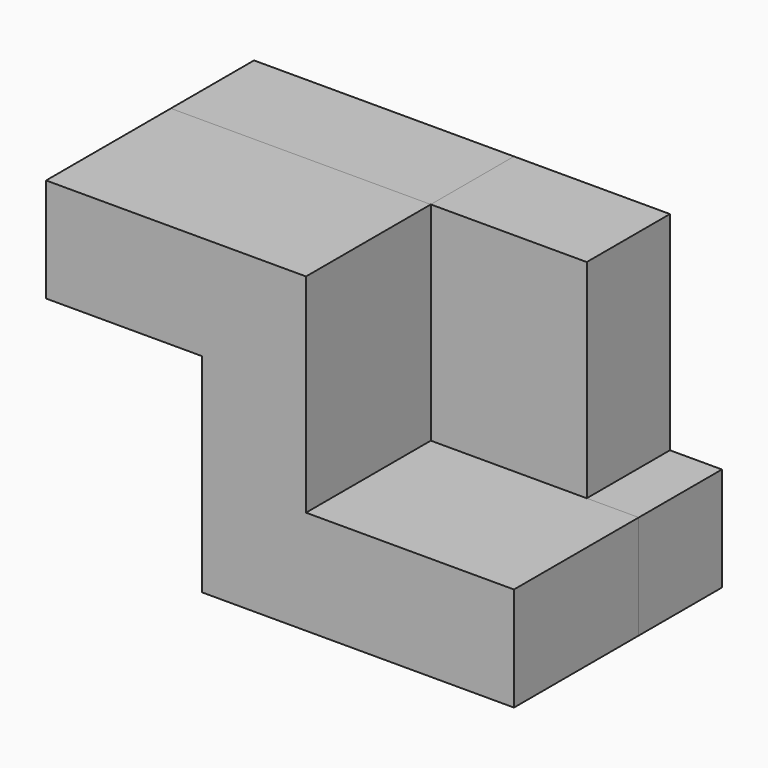
from build123d import *

# Parameters (mm, degrees)
F1_DEPTH = 63.5
F2_DEPTH = 25.4
F3_W     = 25.4
F3_H     = 50.8
F4_DEPTH = 38.1


with BuildPart() as f1:
    # F0 (on Front) → F1 (new body)
    with BuildSketch(Plane.XZ):
        Polygon((16.885137, 53.24405), (-46.614863, 53.24405), (-46.614863, 27.84405), (-8.514863, 27.84405), (-8.514863, -22.95595), (67.685137, -22.95595), (67.685137, 2.44405), (16.885137, 2.44405), align=None)
    extrude(amount=F1_DEPTH)


with BuildPart() as f2:
    # F0 (on Front) → F2 (new body)
    with BuildSketch(Plane.XZ):
        Polygon((16.885137, 53.24405), (-46.614863, 53.24405), (-46.614863, 27.84405), (-8.514863, 27.84405), (-8.514863, -22.95595), (67.685137, -22.95595), (67.685137, 2.44405), (16.885137, 2.44405), align=None)
    extrude(amount=F2_DEPTH)


with BuildPart() as f4:
    # F3 (on face) → F4 (new body)
    with BuildSketch(Plane.YZ.offset(16.885137)):
        with Locations((-12.7, 27.84405)):
            Rectangle(F3_W, F3_H)
    extrude(amount=F4_DEPTH)


solid = Compound([f1.part, f2.part, f4.part])
